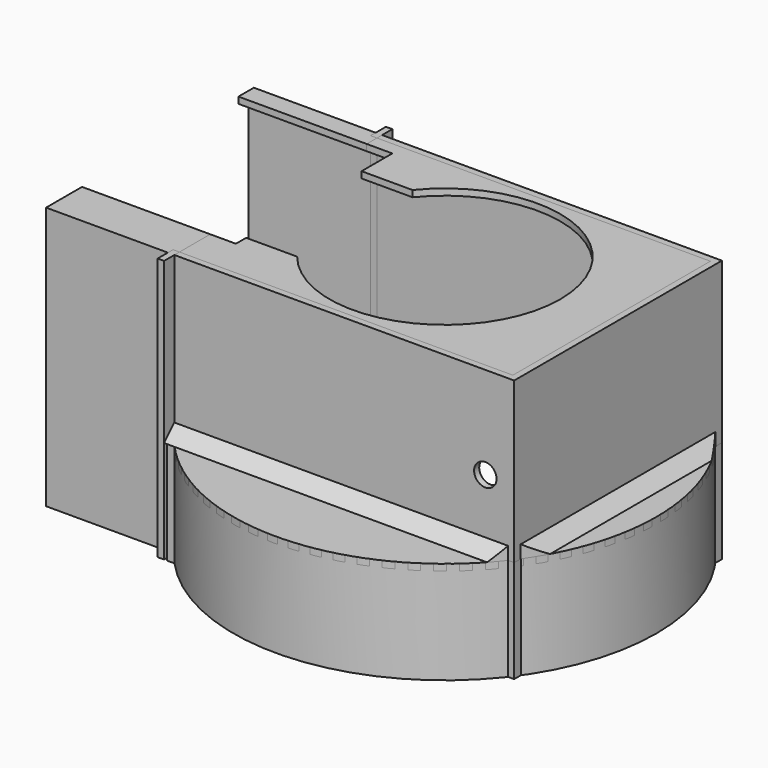
from build123d import *

# Parameters (mm, degrees)
EXTRUDE_DEPTH    = 16
EXTRUDE001_DEPTH = 1
EXTRUDE004_DEPTH = 1
SKETCH003_R      = 1.75
EXTRUDE003_DEPTH = 25
EXTRUDE002_DEPTH = 25
EXTRUDE005_DEPTH = 5
SKETCH008_W      = 29
SKETCH008_H      = 1
SKETCH008_W_2    = 1
SKETCH008_H_2    = 21.5
EXTRUDE006_DEPTH = 1
EXTRUDE007_DEPTH = 16
EXTRUDE008_DEPTH = 20
SKETCH011_W      = 1
SKETCH011_H      = 3
EXTRUDE009_DEPTH = 41


with BuildPart() as extrude_body:
    # Sketch → Extrude (new body)
    with BuildSketch(Plane.XY):
        with BuildLine():
            ThreePointArc((-26.562424, -19.25), (31, 0), (-26.562424, 19.25))
            Line((-26.562424, 22.25), (-26.562424, 19.25))
            Line((-26.562424, 22.25), (-25.370833, 22.25))
            ThreePointArc((-25.370833, -22.25), (32, 0), (-25.370833, 22.25))
            Line((-26.562424, -22.25), (-25.370833, -22.25))
            Line((-26.562424, -22.25), (-26.562424, -19.25))
        make_face()
    extrude(amount=EXTRUDE_DEPTH)


with BuildPart() as extrude001:
    # Sketch001 → Extrude001 (new body)
    with BuildSketch(Plane.XY.offset(15)):
        with BuildLine():
            ThreePointArc((-26.5, -20.94636), (32, 0), (-26.5, 20.94636))
            Line((-26.5, 20.94636), (-26.5, 19.25))
            Line((-26.5, 19.25), (-15, 19.25))
            Line((-15, 19.25), (-15, 20.75))
            Line((-15, 20.75), (15, 20.75))
            Line((15, 20.75), (15, 19.25))
            Line((15, 19.25), (25, 19.25))
            Line((25, 19.25), (25, 11.25))
            Line((25, 11.25), (26.5, 11.25))
            Line((26.5, 11.25), (26.5, -11.25))
            Line((26.5, -11.25), (25, -11.25))
            Line((25, -11.25), (25, -19.25))
            Line((25, -19.25), (15, -19.25))
            Line((15, -19.25), (15, -20.75))
            Line((15, -20.75), (-15, -20.75))
            Line((-15, -20.75), (-15, -19.25))
            Line((-15, -19.25), (-26.5, -19.25))
            Line((-26.5, -19.25), (-26.5, -20.94636))
        make_face()
    extrude(amount=EXTRUDE001_DEPTH)


with BuildPart() as extrude004:
    # Sketch004 → Extrude004 (new body)
    with BuildSketch(Plane.XY.offset(40)):
        with BuildLine():
            Line((-27, 20.25), (26, 20.25))
            Line((26, 20.25), (26, -20.25))
            Line((26, -20.25), (-27, -20.25))
            Line((-27, -13.25), (-27, -20.25))
            Line((-23, -13.25), (-27, -13.25))
            Line((-23, -11.25), (-23, -13.25))
            Line((-23, -11.25), (-15.051245, -11.25))
            ThreePointArc((-15.051245, -11.25), (17, 0), (-15.051245, 11.25))
            Line((-23, 11.25), (-15.051245, 11.25))
            Line((-23, 11.25), (-23, 17.25))
            Line((-23, 17.25), (-27, 17.25))
            Line((-27, 17.25), (-27, 20.25))
        make_face()
    extrude(amount=EXTRUDE004_DEPTH)


with BuildPart() as extrude003:
    # Sketch003 → Extrude003 (new body, symmetric)
    with BuildSketch(Plane.XZ):
        with Locations((21.5, 26.6)):
            Circle(SKETCH003_R)
    extrude(amount=EXTRUDE003_DEPTH, both=True)


with BuildPart() as cut:
    # Sketch002 → Extrude002 (new body)
    with BuildSketch(Plane.XY.offset(16)):
        Polygon((-27, 19.25), (25, 19.25), (25, -19.25), (-27, -19.25), (-27, -20.25), (26, -20.25), (26, 20.25), (-27, 20.25), align=None)
    extrude(amount=EXTRUDE002_DEPTH)

    # Cut: cut Extrude003
    add(extrude003.part, mode=Mode.SUBTRACT)


with BuildPart() as sweep_body:
    # Sweep: sweep along a path in Sketch006
    with BuildLine(Plane.XY.offset(16)) as sweep_path:
        Line((-27, 20.25), (26, 20.25))
        Line((26, 20.25), (26, -20.25))
        Line((26, -20.25), (-27, -20.25))
    # Sketch005 → Sweep (sweep)
    with BuildSketch(Plane.XZ):
        Polygon((26, 18), (28, 16), (26, 16), align=None)
    sweep(path=sweep_path.line, transition=Transition.RIGHT)


with BuildPart() as common:
    # Sketch007 → Extrude005 (new body)
    with BuildSketch(Plane.XY.offset(15)):
        with BuildLine():
            ThreePointArc((0, -32.984845), (32, 0), (0, 32.984845))
            Line((0, 32.984845), (-28, 32.984845))
            Line((-28, 32.984845), (-28, -32.984845))
            Line((-28, -32.984845), (0, -32.984845))
        make_face()
    extrude(amount=EXTRUDE005_DEPTH)

    # Common: intersect Sweep body
    add(sweep_body.part, mode=Mode.INTERSECT)


with BuildPart() as extrude006:
    # Sketch008 → Extrude006 (new body)
    with BuildSketch(Plane.XY.offset(15)):
        with Locations((0, 19.75)):
            Rectangle(SKETCH008_W, SKETCH008_H)
        with Locations((25.5, 0)):
            Rectangle(SKETCH008_W_2, SKETCH008_H_2)
        with Locations((0, -19.75)):
            Rectangle(SKETCH008_W, SKETCH008_H)
    extrude(amount=EXTRUDE006_DEPTH)


with BuildPart() as extrude007:
    # Sketch009 → Extrude007 (new body)
    with BuildSketch(Plane(origin=(0, 0, 0), x_dir=(1, 0, 0), z_dir=(0, 0, -1))):
        Polygon((25, 20.25), (26, 20.25), (26, 18), (25, 19), align=None)
        Polygon((25, -19), (26, -18), (26, -20.25), (25, -20.25), align=None)
    extrude(amount=-EXTRUDE007_DEPTH)


with BuildPart() as extrude008:
    # Sketch010 → Extrude008 (new body)
    with BuildSketch(Plane(origin=(-27, 0, 0), x_dir=(0, -1, 0), z_dir=(-1, 0, 0))):
        Polygon((-19.25, 0), (-19.25, 40), (-17.25, 40), (-17.25, 41), (-20.25, 41), (-20.25, 0), align=None)
        Polygon((19.25, 0), (19.25, 40), (13.25, 40), (13.25, 41), (20.25, 41), (20.25, 0), align=None)
    extrude(amount=EXTRUDE008_DEPTH)


with BuildPart() as extrude009:
    # Sketch011 → Extrude009 (new body)
    with BuildSketch(Plane.XY):
        with Locations((-27.5, 20.75)):
            Rectangle(SKETCH011_W, SKETCH011_H)
        with Locations((-27.5, -20.75)):
            Rectangle(SKETCH011_W, SKETCH011_H)
    extrude(amount=EXTRUDE009_DEPTH)


solid = Compound([extrude_body.part, extrude001.part, extrude004.part, cut.part, common.part, extrude006.part, extrude007.part, extrude008.part, extrude009.part])
